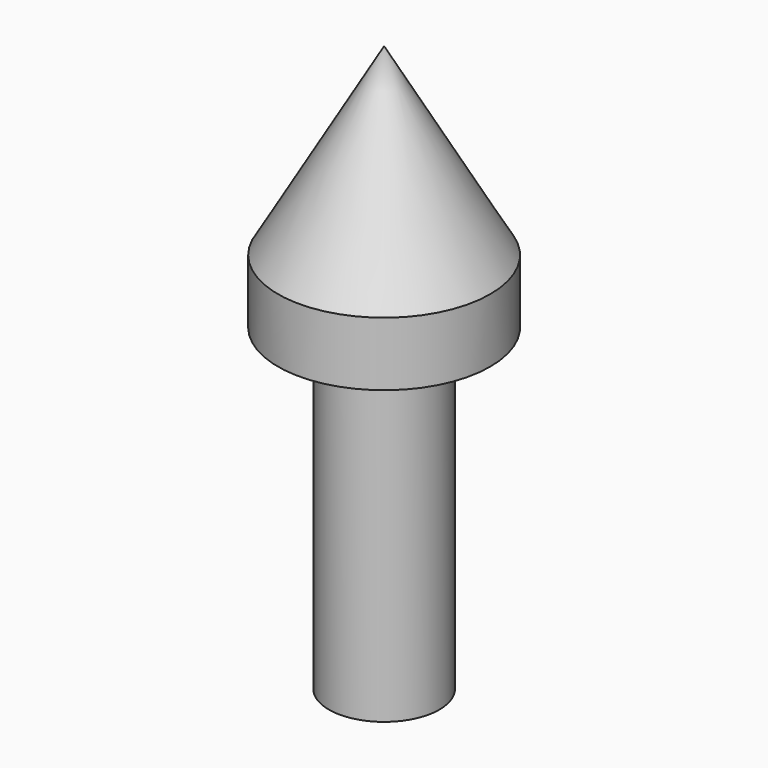
from build123d import *

# Parameters (mm, degrees)
F0_R     = 3.96875
F1_DEPTH = 22.86
F2_R     = 7.62
F2_R_2   = 3.96875
F3_DEPTH = 17.78
F4_SIZE2 = 13.1982271537
F4_SIZE  = 7.62


with BuildPart() as f1:
    # F0 (on Top) → F1 (new body)
    with BuildSketch(Plane.XY):
        Circle(F0_R)
    extrude(amount=F1_DEPTH)

    # F2 (on face) → F3 (join)
    with BuildSketch(Plane.XY.offset(22.86)):
        Circle(F2_R)
        Circle(F2_R_2, mode=Mode.SUBTRACT)
        Circle(F2_R_2)
    extrude(amount=F3_DEPTH)

    # F4
    f4_edges = [f1.edges().sort_by_distance(p)[0] for p in [
        (-7.62, 0, 40.64),
    ]]
    f4_side = f1.faces().sort_by_distance((0, 0, 40.64))[0]
    chamfer(f4_edges, length=F4_SIZE, length2=F4_SIZE2, reference=f4_side)


solid = f1.part
